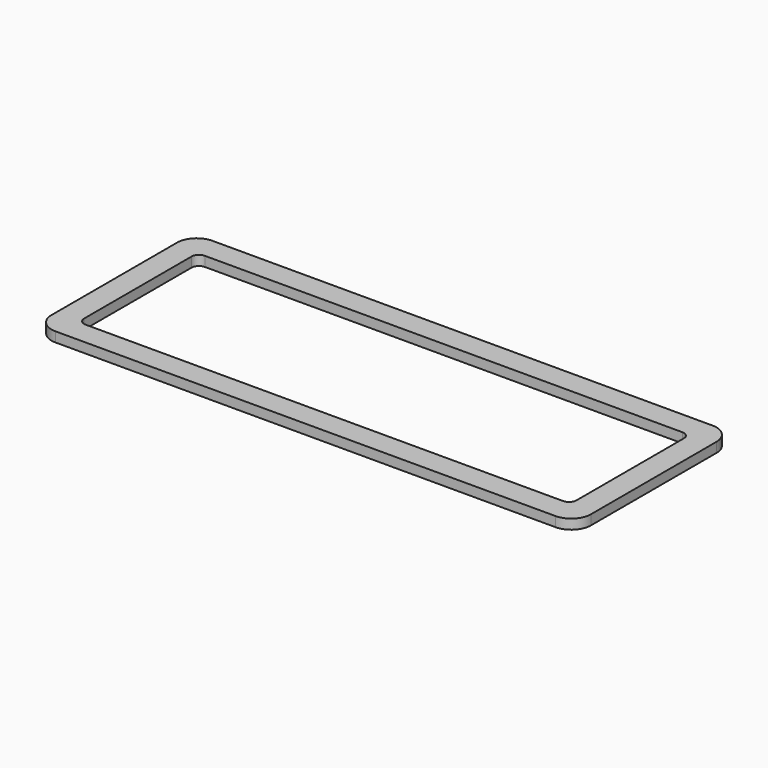
from build123d import *

# Parameters (mm, degrees)
F0_W     = 110
F0_H     = 40
F1_DEPTH = 2
F2_W     = 100.4
F2_H     = 30.4
F3_DEPTH = 2.001
F4_R     = 4
F5_R     = 1.5


with BuildPart() as f1:
    # F0 (on Top) → F1 (new body)
    with BuildSketch(Plane.XY):
        Rectangle(F0_W, F0_H)
    extrude(amount=F1_DEPTH)

    # F2 (on face) → F3 (cut, through all)
    with BuildSketch(Plane.XY.offset(2)):
        Rectangle(F2_W, F2_H)
    extrude(amount=-F3_DEPTH, mode=Mode.SUBTRACT)

    # F4
    f4_edges = [f1.edges().sort_by_distance(p)[0] for p in [
        (-55, -20, 1),
        (-55, 20, 1),
        (55, -20, 1),
        (55, 20, 1),
    ]]
    fillet(f4_edges, radius=F4_R)

    # F5
    f5_edges = [f1.edges().sort_by_distance(p)[0] for p in [
        (-50.2, 15.2, 1),
        (50.2, 15.2, 1),
        (-50.2, -15.2, 1),
        (50.2, -15.2, 1),
    ]]
    fillet(f5_edges, radius=F5_R)


solid = f1.part
